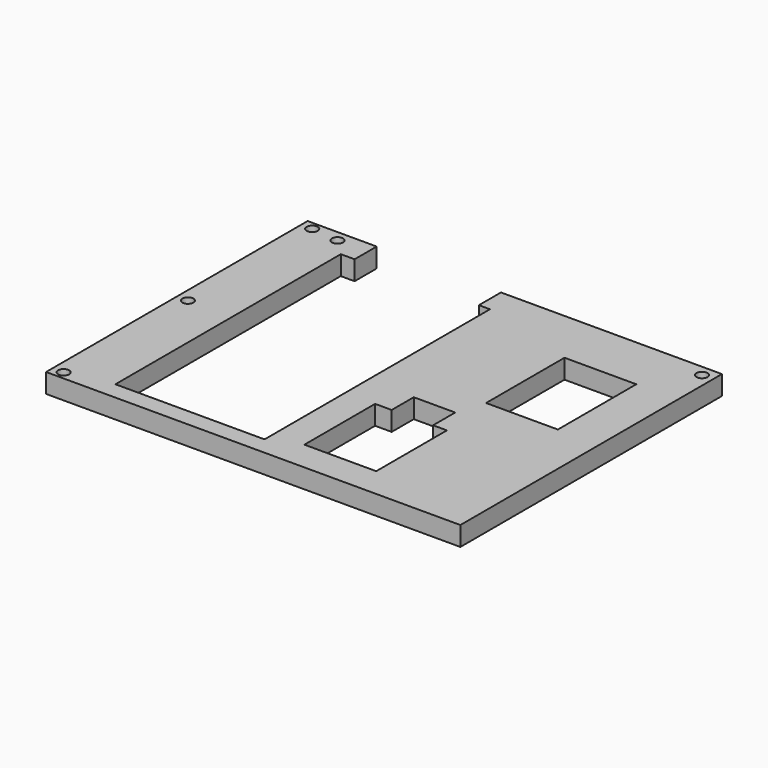
from build123d import *

# Parameters (mm, degrees)
F0_W     = 26
F0_H     = 35.5
F1_DEPTH = 7
F4_D     = 4
F5_DEPTH = 10
F7_D     = 4


with BuildPart() as f1:
    # F0 (on Top) → F1 (new body)
    with BuildSketch(Plane.XY):
        Polygon((-46.6139434278, 112), (-61.6139434278, 112), (-61.6139434278, -6.3780904748), (78.3860565722, -6.3780904748), (78.3860565722, 112), (-1.6139434278, 112), (-1.6139434278, 102), (2.3860565722, 102), (2.3860565722, 0), (-51.6139434278, 0), (-51.6139434278, 102), (-46.6139434278, 102), align=None)
        Polygon((13.2124200463, 4.5), (13.2124200463, 36.5), (19.2124200463, 36.5), (19.2124200463, 46.5), (34.2124200463, 46.5), (34.2124200463, 36.5), (39.2124200463, 36.5), (39.2124200463, 4.5), align=None, mode=Mode.SUBTRACT)
        with Locations((50.3860565722, 74.25)):
            Rectangle(F0_W, F0_H, mode=Mode.SUBTRACT)
    extrude(amount=F1_DEPTH)

    # F4 (through all)
    with Locations(Plane.XY.offset(7)):
        with Locations((74.3860565722, 108), (-57.6139434278, 108), (-57.6139434278, 116), (74.3860565722, 116)):
            Hole(F4_D / 2)

    # F5 (add): a face of the model
    f5_faces = [f1.faces().sort_by_distance(p)[0] for p in [
        (-61.6139434278, 52.8109547626, 3.5),
    ]]
    extrude(f5_faces, amount=F5_DEPTH)

    # F7 (through all)
    with Locations(Plane.XY.offset(7)):
        with Locations((-67.6139434278, 109.0609547626), (-67.6139434278, 52.8109547626), (-67.6139434278, -3.4390452374)):
            Hole(F7_D / 2)


solid = f1.part
